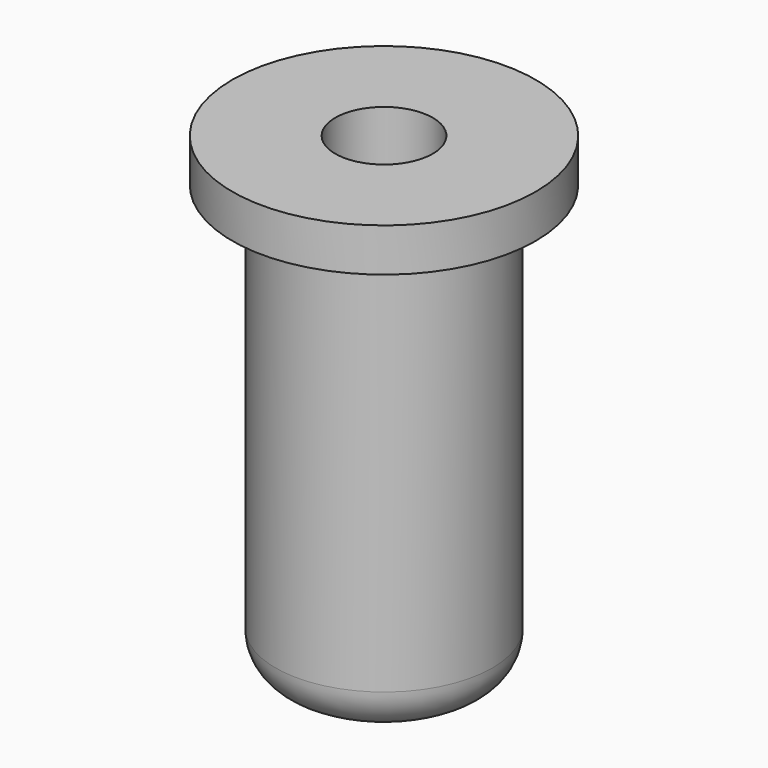
from build123d import *

# Parameters (mm, degrees)
F0_R     = 5
F0_R_2   = 2.25
F1_DEPTH = 20
F2_R     = 2
F3_R     = 7
F3_R_2   = 2.25
F4_DEPTH = 2


with BuildPart() as f1:
    # F0 (on Top) → F1 (new body)
    with BuildSketch(Plane.XY):
        Circle(F0_R)
        Circle(F0_R_2, mode=Mode.SUBTRACT)
    extrude(amount=-F1_DEPTH)

    # F2
    f2_edges = [f1.edges().sort_by_distance(p)[0] for p in [
        (-5, 0, -20),
    ]]
    fillet(f2_edges, radius=F2_R)

    # F3 (on face) → F4 (join)
    with BuildSketch(Plane.XY):
        Circle(F3_R)
        Circle(F3_R_2, mode=Mode.SUBTRACT)
    extrude(amount=F4_DEPTH)


solid = f1.part
